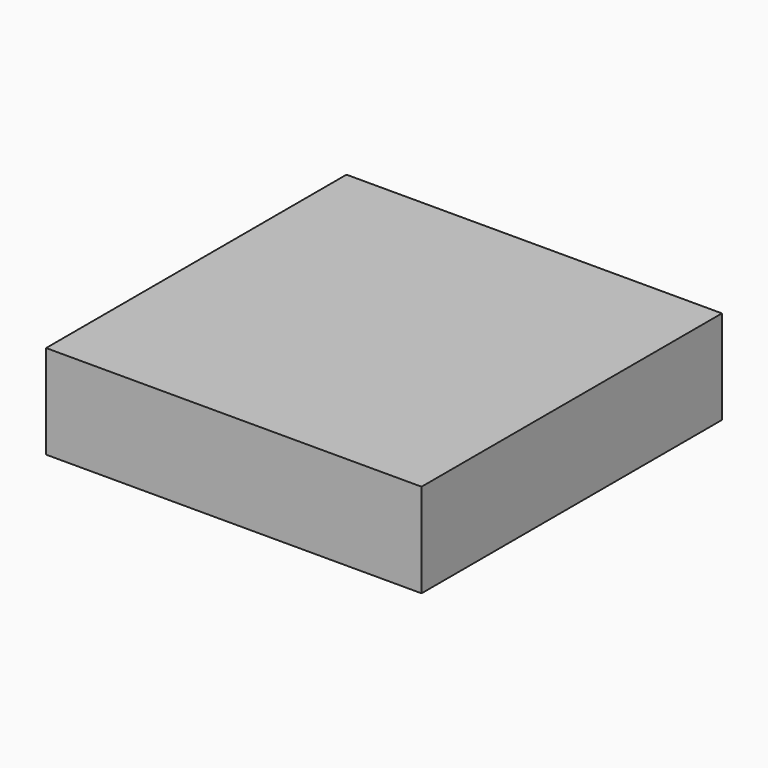
from build123d import *

# Parameters (mm, degrees)
SKETCH_W  = 0.12
SKETCH_H  = 0.12
PAD_DEPTH = 0.015


with BuildPart() as part:
    # Sketch → Pad (new body, symmetric)
    with BuildSketch(Plane.XY):
        Rectangle(SKETCH_W, SKETCH_H)
    extrude(amount=PAD_DEPTH, both=True)


solid = part.part
